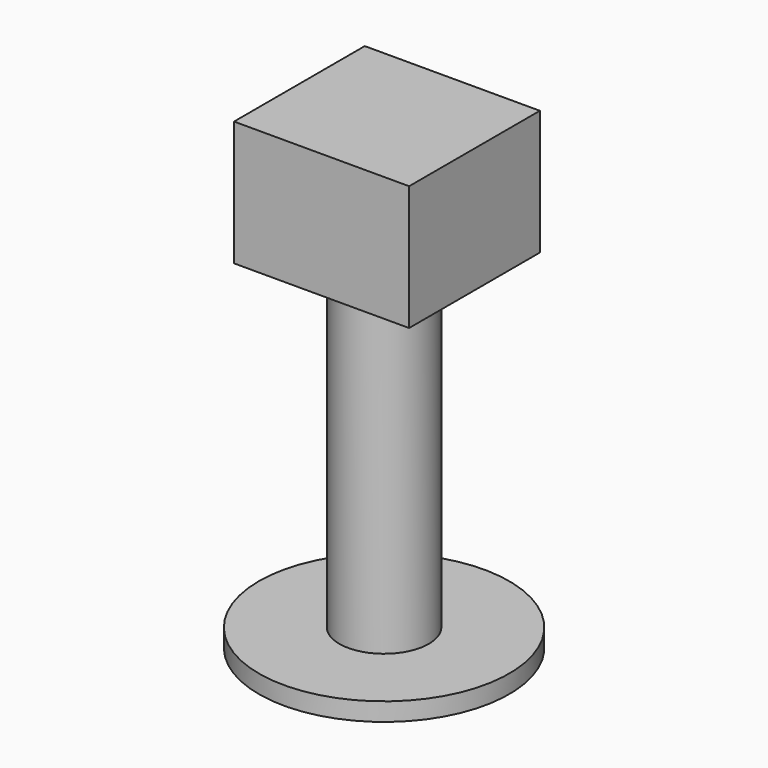
from build123d import *

# Parameters (mm, degrees)
F0_W     = 10.3772366419
F0_H     = 78.2052613795
F3_START = 32.766
F2_W     = 40.606578812
F2_H     = 37.899473682
F3_DEPTH = 28.956


with BuildPart() as f1:
    # F0 (on Front) → F1 (revolve)
    with BuildSketch(Plane.XZ):
        with Locations((-5.188618321, -3.4590791911)):
            Rectangle(F0_W, F0_H)
        Polygon((-29.026184231, -46.772763133), (0, -46.772763133), (0, -42.5617098808), (-10.3772366419, -42.5617098808), (-29.026184231, -42.5617098808), align=None)
    revolve(axis=Axis((0, 0, -3.4590791911), (0, 0, -1)))

    # F2 (on Top) → F3 (join)
    with BuildSketch(Plane.XY.offset(F3_START)):
        with Locations((0.3007883206, 0.4511838779)):
            Rectangle(F2_W, F2_H)
    extrude(amount=F3_DEPTH)


solid = f1.part
